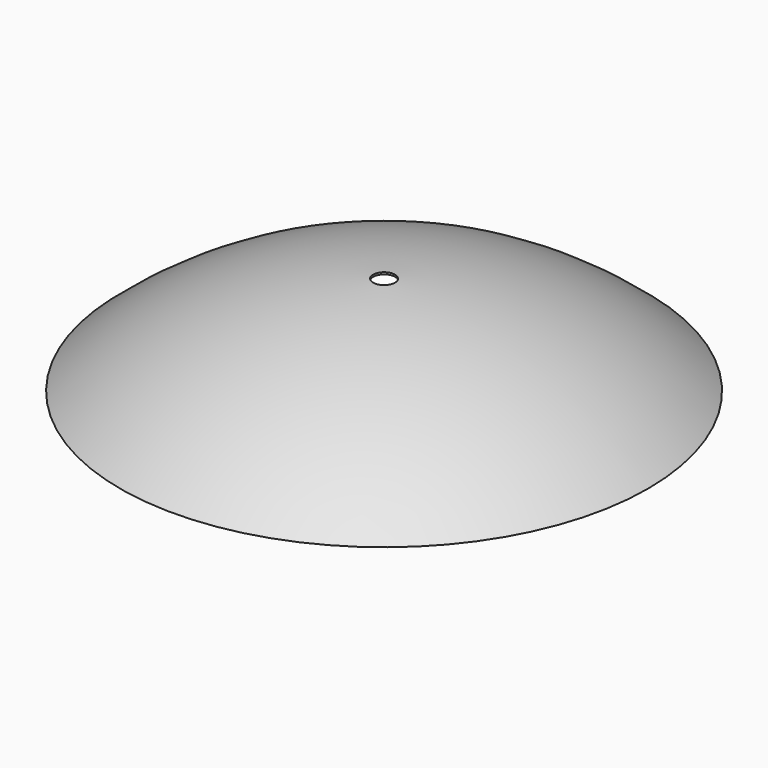
from build123d import *

# Parameters (mm, degrees)
F3_T     = -1
F2_R     = 5.5
F4_DEPTH = 25.001


with BuildPart() as f1:
    # F0 (on Front) → F1 (revolve)
    with BuildSketch(Plane.XZ):
        with BuildLine():
            Line((0, 25), (0, -25))
            Line((0, -25), (133, -25))
            ThreePointArc((133, -25), (71.0440004504, 12.0870411981), (0, 25))
        make_face()
    revolve(axis=Axis((0, 0, 0), (0, 0, -1)))

    # F3
    f3_openings = [f1.faces().sort_by_distance(p)[0] for p in [
        (0, 0, -25),
    ]]
    offset(amount=F3_T, openings=f3_openings)

    # F2 (on Top) → F4 (cut, through all)
    with BuildSketch(Plane.XY):
        Circle(F2_R)
    extrude(amount=F4_DEPTH, mode=Mode.SUBTRACT)


solid = f1.part
